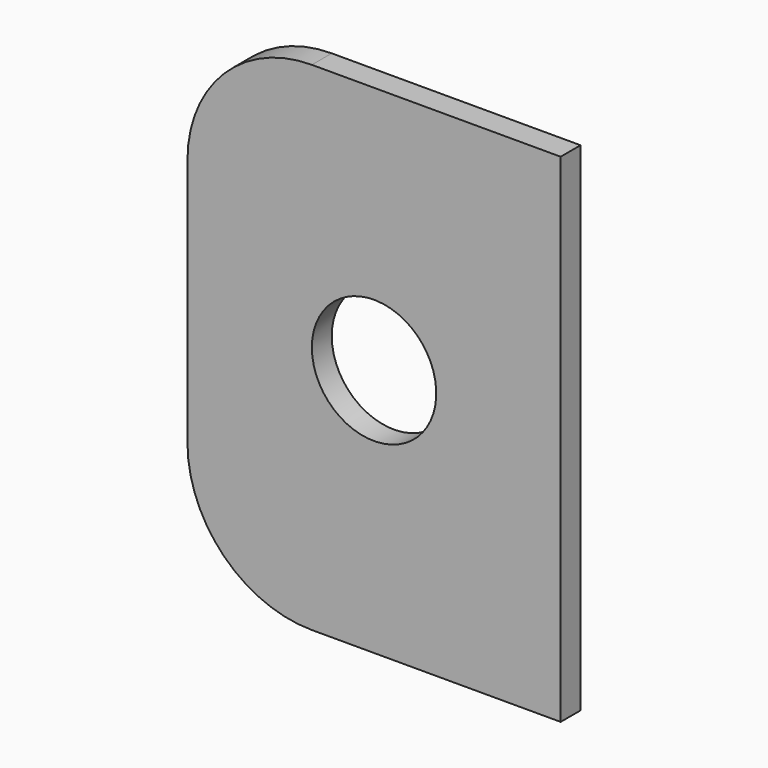
from build123d import *

# Parameters (mm, degrees)
F0_W     = 150
F0_H     = 200
F1_DEPTH = 10
F2_R     = 50
F4_D     = 50


with BuildPart() as f1:
    # F0 (on Front) → F1 (new body)
    with BuildSketch(Plane.XZ):
        Rectangle(F0_W, F0_H)
    extrude(amount=F1_DEPTH)

    # F2
    f2_edges = [f1.edges().sort_by_distance(p)[0] for p in [
        (-75, -5, 100),
        (-75, -5, -100),
    ]]
    fillet(f2_edges, radius=F2_R)

    # F4 (through all)
    with Locations(Plane(origin=(0, 0, 0), x_dir=(1, 0, 0), z_dir=(0, 1, 0))):
        with Locations((0, 0)):
            Hole(F4_D / 2)


solid = f1.part
